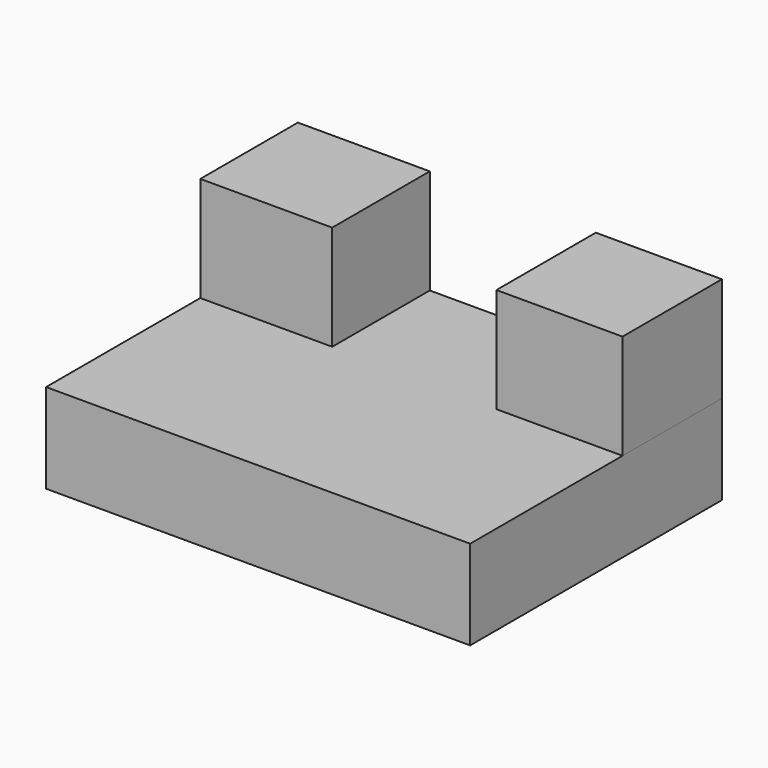
from build123d import *

# Parameters (mm, degrees)
F0_W     = 102.686628
F0_H     = 21.678291
F1_DEPTH = 76.2
F2_W     = 30.533731
F2_H     = 30.084528
F3_DEPTH = 25.4
F4_W     = 31.946951
F4_H     = 29.522406
F5_DEPTH = 25.4


with BuildPart() as f1:
    # F0 (on Front) → F1 (new body)
    with BuildSketch(Plane.XZ):
        with Locations((3.708128, -40.932033)):
            Rectangle(F0_W, F0_H)
    extrude(amount=F1_DEPTH)

    # F2 (on face) → F3 (join)
    with BuildSketch(Plane.XY.offset(-30.092888)):
        with Locations((39.784577, -15.042264)):
            Rectangle(F2_W, F2_H)
    extrude(amount=F3_DEPTH)

    # F4 (on face) → F5 (join)
    with BuildSketch(Plane.XY.offset(-30.092888)):
        with Locations((-31.66171, -14.761203)):
            Rectangle(F4_W, F4_H)
    extrude(amount=F5_DEPTH)


solid = f1.part
